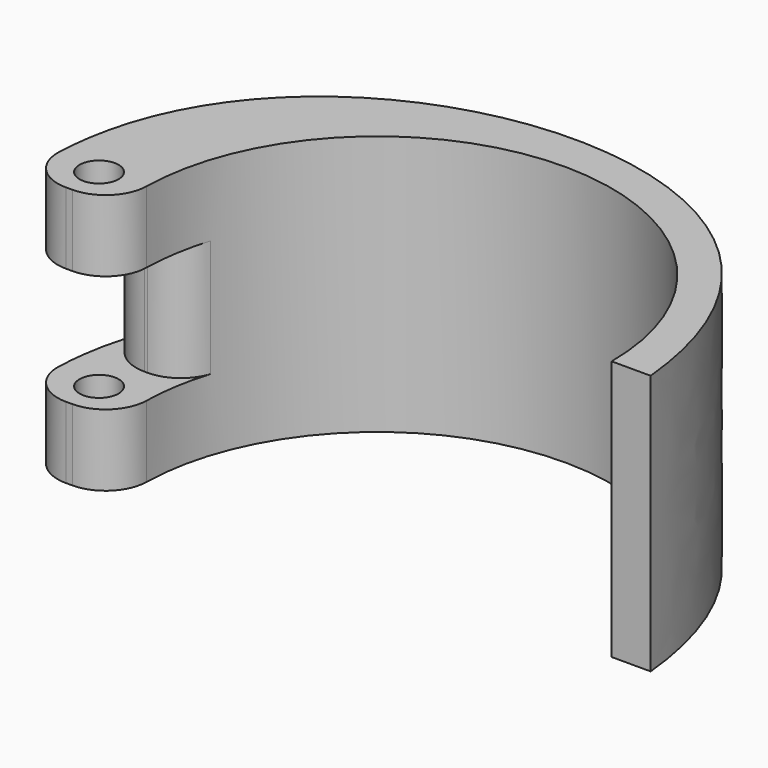
from build123d import *

# Parameters (mm, degrees)
PAD_DEPTH       = 20
SKETCH005_R     = 1.5
POCKET_DEPTH    = 20.001
SKETCH008_W     = 19.422657
SKETCH008_H     = 9
POCKET002_DEPTH = 6
FILLET002_R     = 3.2


with BuildPart() as part:
    # Sketch → Pad (new body)
    with BuildSketch(Plane.XY):
        with BuildLine():
            Line((18, 0), (21, 0))
            add(Edge.make_bspline(
                [(21, 0), (18.005676, 31.142447), (-27.438789, 25.917835), (-24.780889, -2.8)],
                knots=[0, 0, 0, 0, 1, 1, 1, 1], degree=3))
            Line((-24.780889, -2.8), (-17.780889, -2.8))
            ThreePointArc((-17.780889, -2.8), (-1.40428, 17.945139), (18, 0))
        make_face()
    extrude(amount=PAD_DEPTH)

    # Sketch005 (on Face6 of Pad) → Pocket (cut, through all)
    with BuildSketch(Plane.XY.offset(20)):
        with Locations((-21.380889, 0)):
            Circle(SKETCH005_R)
    extrude(amount=-POCKET_DEPTH, mode=Mode.SUBTRACT)

    # Sketch008 (on Face6 of Pocket) → Pocket002 (cut)
    with BuildSketch(Plane.XZ.offset(2.8)):
        with Locations((-21.679914, 10)):
            Rectangle(SKETCH008_W, SKETCH008_H)
    extrude(amount=-POCKET002_DEPTH, mode=Mode.SUBTRACT)

    # Fillet002
    fillet002_edges = [part.edges().sort_by_distance(p)[0] for p in [
        (-17.713272, 3.2, 10),
        (-24.614915, 3.2, 10),
        (-24.780889, -2.8, 2.75),
        (-17.780889, -2.8, 2.75),
        (-17.780889, -2.8, 17.25),
        (-24.780889, -2.8, 17.25),
    ]]
    fillet(fillet002_edges, radius=FILLET002_R)


solid = part.part
